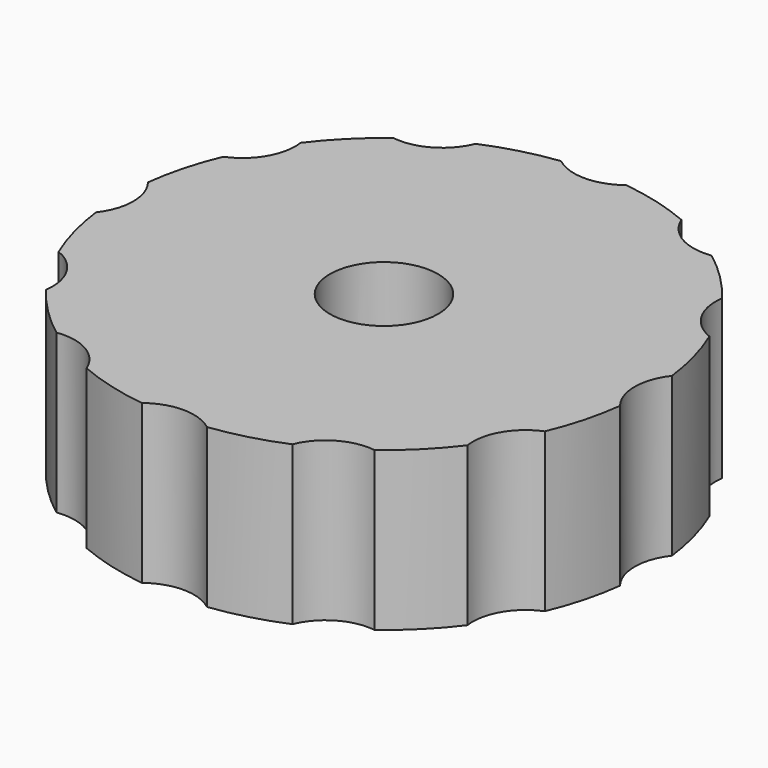
from build123d import *

# Parameters (mm, degrees)
SKETCH_R           = 20
PAD_DEPTH          = 12
SKETCH001_R        = 4
POCKET_DEPTH       = 127.655658
POLARPATTERN_COUNT = 12
SKETCH002_R        = 4.1
POCKET001_DEPTH    = 12.001
SKETCH003_R        = 1.9
POCKET002_DEPTH    = 26


with BuildPart() as part:
    # Sketch → Pad (new body)
    with BuildSketch(Plane.XY):
        Circle(SKETCH_R)
    extrude(amount=PAD_DEPTH)

    # Sketch001 (on Face2 of Pad) → Pocket (cut, through all)
    with BuildSketch(Plane(origin=(0, 0, 0), x_dir=(1, 0, 0), z_dir=(0, 0, -1))):
        with Locations((0, 23)):
            Circle(SKETCH001_R)
    pocket = extrude(amount=-POCKET_DEPTH, mode=Mode.SUBTRACT)

    # PolarPattern: Pocket ×12 about axis
    polarpattern_axis = Axis((0, 0, 0), (0, 0, -1))
    for i in range(1, POLARPATTERN_COUNT):
        add(pocket.rotate(polarpattern_axis, i * 360 / POLARPATTERN_COUNT), mode=Mode.SUBTRACT)

    # Sketch002 (on Face2 of PolarPattern) → Pocket001 (cut, through all)
    with BuildSketch(Plane(origin=(0, 0, 0), x_dir=(1, 0, 0), z_dir=(0, 0, -1))):
        Circle(SKETCH002_R)
    extrude(amount=-POCKET001_DEPTH, mode=Mode.SUBTRACT)

    # Sketch003 → Pocket002 (cut)
    with BuildSketch(Plane.YZ):
        with Locations((0, 6)):
            Circle(SKETCH003_R)
    extrude(amount=-POCKET002_DEPTH, mode=Mode.SUBTRACT)


solid = part.part
